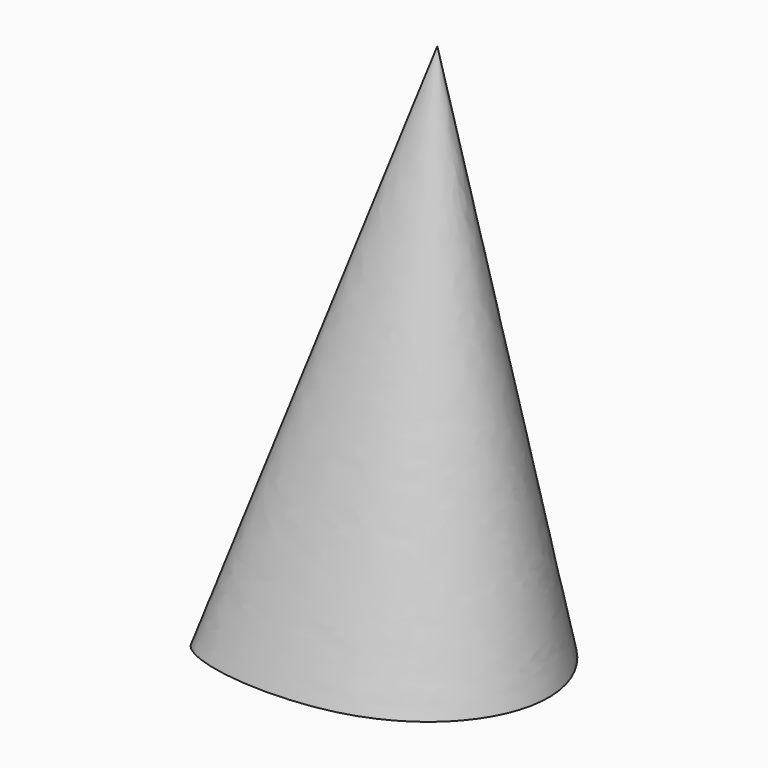
from build123d import *


with BuildPart() as f3:
    # F0 (on Top) → F3 section 0
    with BuildSketch(Plane.XY, mode=Mode.PRIVATE) as f3_s0:
        with BuildLine():
            add(Edge.make_bspline(
                [(0, 22.5893463939), (13.3177291826, 18.7758124884), (27.8037814562, 0.1006114299), (5.020239244, -28.4569924893), (-46.3504254395, -20.8714459066), (-3.504298777, 0.5406167306), (-53.9878418237, 22.3830363849), (-14.3763978321, 26.7060302385), (0, 22.5893463939)],
                knots=[0, 0, 0, 0, 0.1709294621, 0.3412523018, 0.5144319906, 0.6590999454, 0.8154828113, 1, 1, 1, 1], degree=3))
        make_face()
    loft([f3_s0.sketch, Vertex(0, 0, 100)])


solid = f3.part
